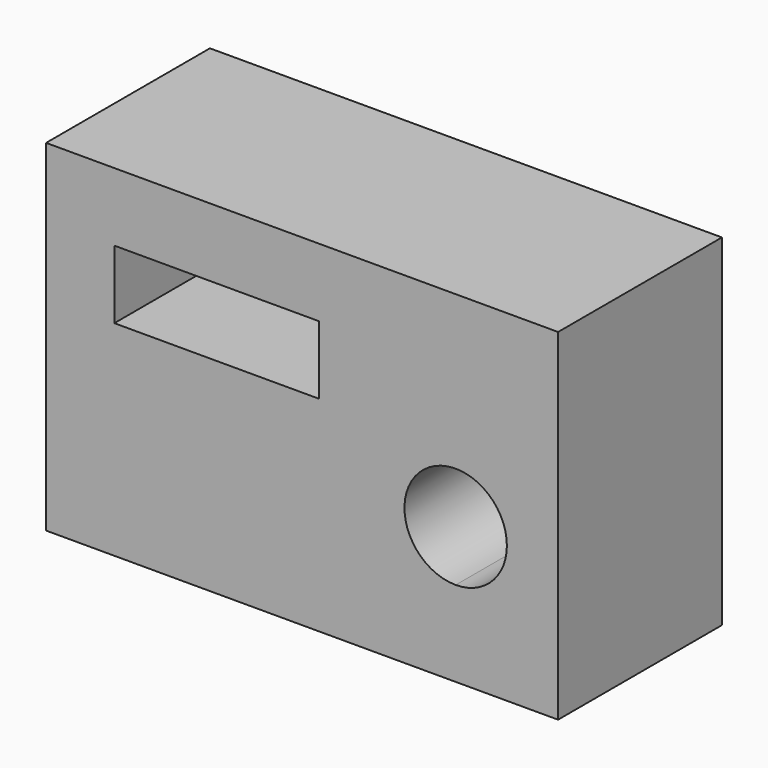
from build123d import *

# Parameters (mm, degrees)
F0_W     = 10
F0_H     = 10
F0_W_2   = 30
F1_DEPTH = 30


with BuildPart() as f1:
    # F0 (on Front) → F1 (new body)
    with BuildSketch(Plane.XZ):
        with Locations((-55, 25)):
            Rectangle(F0_W, F0_H)
        with BuildLine():
            Line((15, 0), (7.5, 0))
            ThreePointArc((7.5, 0), (5.303301, -5.303301), (0, -7.5))
            Line((0, -7.5), (0, -20))
            Line((0, -20), (15, -20))
            Line((15, -20), (15, 0))
        make_face()
        with BuildLine():
            ThreePointArc((0, -7.5), (-5.303301, 5.303301), (7.5, 0))
            Line((7.5, 0), (15, 0))
            Line((15, 0), (15, 30))
            Line((15, 30), (-50, 30))
            Line((-50, 30), (-50, 20))
            Line((-50, 20), (-60, 20))
            Line((-60, 20), (-60, -20))
            Line((-60, -20), (0, -20))
            Line((0, -20), (0, -7.5))
        make_face()
        with Locations((-35, 15)):
            Rectangle(F0_W_2, F0_H, mode=Mode.SUBTRACT)
    extrude(amount=F1_DEPTH)


solid = f1.part
